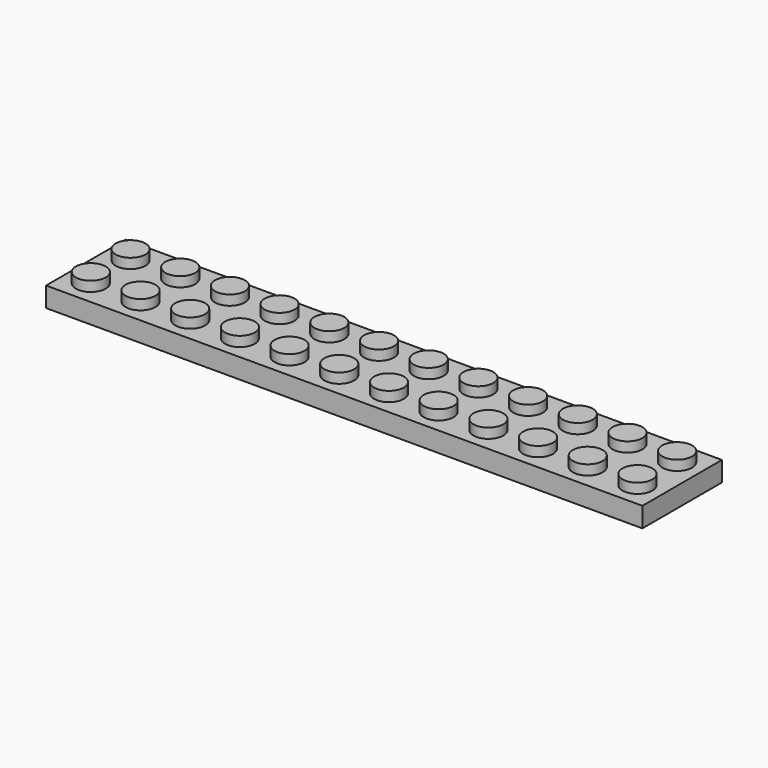
from build123d import *

# Parameters (mm, degrees)
F0_W     = 95.25
F0_H     = 15.875
F0_R     = 2.38125
F1_DEPTH = 3.175
F2_DEPTH = 4.7625
F3_T     = -1.5875
F4_R     = 3.175
F4_R_2   = 2.38125
F5_DEPTH = 1.5875


with BuildPart() as f1:
    # F0 (on Top) → F1 (new body)
    with BuildSketch(Plane.XY):
        Rectangle(F0_W, F0_H)
        with Locations((-43.65625, -3.96875)):
            Circle(F0_R, mode=Mode.SUBTRACT)
        with Locations((-35.71875, -3.96875)):
            Circle(F0_R, mode=Mode.SUBTRACT)
        with Locations((-27.78125, -3.96875)):
            Circle(F0_R, mode=Mode.SUBTRACT)
        with Locations((-19.84375, -3.96875)):
            Circle(F0_R, mode=Mode.SUBTRACT)
        with Locations((-11.90625, -3.96875)):
            Circle(F0_R, mode=Mode.SUBTRACT)
        with Locations((-3.96875, -3.96875)):
            Circle(F0_R, mode=Mode.SUBTRACT)
        with Locations((3.96875, -3.96875)):
            Circle(F0_R, mode=Mode.SUBTRACT)
        with Locations((11.90625, -3.96875)):
            Circle(F0_R, mode=Mode.SUBTRACT)
        with Locations((19.84375, -3.96875)):
            Circle(F0_R, mode=Mode.SUBTRACT)
        with Locations((27.78125, -3.96875)):
            Circle(F0_R, mode=Mode.SUBTRACT)
        with Locations((35.71875, -3.96875)):
            Circle(F0_R, mode=Mode.SUBTRACT)
        with Locations((43.65625, -3.96875)):
            Circle(F0_R, mode=Mode.SUBTRACT)
        with Locations((-43.65625, 3.96875)):
            Circle(F0_R, mode=Mode.SUBTRACT)
        with Locations((-35.71875, 3.96875)):
            Circle(F0_R, mode=Mode.SUBTRACT)
        with Locations((-27.78125, 3.96875)):
            Circle(F0_R, mode=Mode.SUBTRACT)
        with Locations((-19.84375, 3.96875)):
            Circle(F0_R, mode=Mode.SUBTRACT)
        with Locations((-11.90625, 3.96875)):
            Circle(F0_R, mode=Mode.SUBTRACT)
        with Locations((-3.96875, 3.96875)):
            Circle(F0_R, mode=Mode.SUBTRACT)
        with Locations((3.96875, 3.96875)):
            Circle(F0_R, mode=Mode.SUBTRACT)
        with Locations((11.90625, 3.96875)):
            Circle(F0_R, mode=Mode.SUBTRACT)
        with Locations((19.84375, 3.96875)):
            Circle(F0_R, mode=Mode.SUBTRACT)
        with Locations((27.78125, 3.96875)):
            Circle(F0_R, mode=Mode.SUBTRACT)
        with Locations((35.71875, 3.96875)):
            Circle(F0_R, mode=Mode.SUBTRACT)
        with Locations((43.65625, 3.96875)):
            Circle(F0_R, mode=Mode.SUBTRACT)
    extrude(amount=F1_DEPTH)

    # F0 (on Top) → F2 (join)
    with BuildSketch(Plane.XY):
        with Locations((-43.65625, 3.96875)):
            Circle(F0_R)
        with Locations((-43.65625, -3.96875)):
            Circle(F0_R)
        with Locations((-35.71875, -3.96875)):
            Circle(F0_R)
        with Locations((-35.71875, 3.96875)):
            Circle(F0_R)
        with Locations((-27.78125, 3.96875)):
            Circle(F0_R)
        with Locations((-19.84375, -3.96875)):
            Circle(F0_R)
        with Locations((-19.84375, 3.96875)):
            Circle(F0_R)
        with Locations((-11.90625, 3.96875)):
            Circle(F0_R)
        with Locations((-11.90625, -3.96875)):
            Circle(F0_R)
        with Locations((-27.78125, -3.96875)):
            Circle(F0_R)
        with Locations((-3.96875, -3.96875)):
            Circle(F0_R)
        with Locations((-3.96875, 3.96875)):
            Circle(F0_R)
        with Locations((3.96875, 3.96875)):
            Circle(F0_R)
        with Locations((3.96875, -3.96875)):
            Circle(F0_R)
        with Locations((11.90625, -3.96875)):
            Circle(F0_R)
        with Locations((11.90625, 3.96875)):
            Circle(F0_R)
        with Locations((19.84375, 3.96875)):
            Circle(F0_R)
        with Locations((19.84375, -3.96875)):
            Circle(F0_R)
        with Locations((27.78125, -3.96875)):
            Circle(F0_R)
        with Locations((27.78125, 3.96875)):
            Circle(F0_R)
        with Locations((35.71875, 3.96875)):
            Circle(F0_R)
        with Locations((35.71875, -3.96875)):
            Circle(F0_R)
        with Locations((43.65625, 3.96875)):
            Circle(F0_R)
        with Locations((43.65625, -3.96875)):
            Circle(F0_R)
    extrude(amount=F2_DEPTH)

    # F3
    f3_openings = [f1.faces().sort_by_distance(p)[0] for p in [
        (0, 0, 0),
    ]]
    offset(amount=F3_T, openings=f3_openings, kind=Kind.INTERSECTION)

    # F4 (on face) → F5 (join)
    with BuildSketch(Plane(origin=(0, 0, 1.5875), x_dir=(1, 0, 0), z_dir=(0, 0, -1))):
        with Locations((-39.6875, 0)):
            Circle(F4_R)
        with Locations((-39.6875, 0)):
            Circle(F4_R_2, mode=Mode.SUBTRACT)
        with Locations((-31.75, 0)):
            Circle(F4_R)
        with Locations((-31.75, 0)):
            Circle(F4_R_2, mode=Mode.SUBTRACT)
        with Locations((-23.8125, 0)):
            Circle(F4_R)
        with Locations((-23.8125, 0)):
            Circle(F4_R_2, mode=Mode.SUBTRACT)
        with Locations((-15.875, 0)):
            Circle(F4_R)
        with Locations((-15.875, 0)):
            Circle(F4_R_2, mode=Mode.SUBTRACT)
        with Locations((-7.9375, 0)):
            Circle(F4_R)
        with Locations((-7.9375, 0)):
            Circle(F4_R_2, mode=Mode.SUBTRACT)
        Circle(F4_R)
        Circle(F4_R_2, mode=Mode.SUBTRACT)
        with Locations((7.9375, 0)):
            Circle(F4_R)
        with Locations((7.9375, 0)):
            Circle(F4_R_2, mode=Mode.SUBTRACT)
        with Locations((15.875, 0)):
            Circle(F4_R)
        with Locations((15.875, 0)):
            Circle(F4_R_2, mode=Mode.SUBTRACT)
        with Locations((23.8125, 0)):
            Circle(F4_R)
        with Locations((23.8125, 0)):
            Circle(F4_R_2, mode=Mode.SUBTRACT)
        with Locations((31.75, 0)):
            Circle(F4_R)
        with Locations((31.75, 0)):
            Circle(F4_R_2, mode=Mode.SUBTRACT)
        with Locations((39.6875, 0)):
            Circle(F4_R)
        with Locations((39.6875, 0)):
            Circle(F4_R_2, mode=Mode.SUBTRACT)
    extrude(amount=F5_DEPTH)


solid = f1.part
